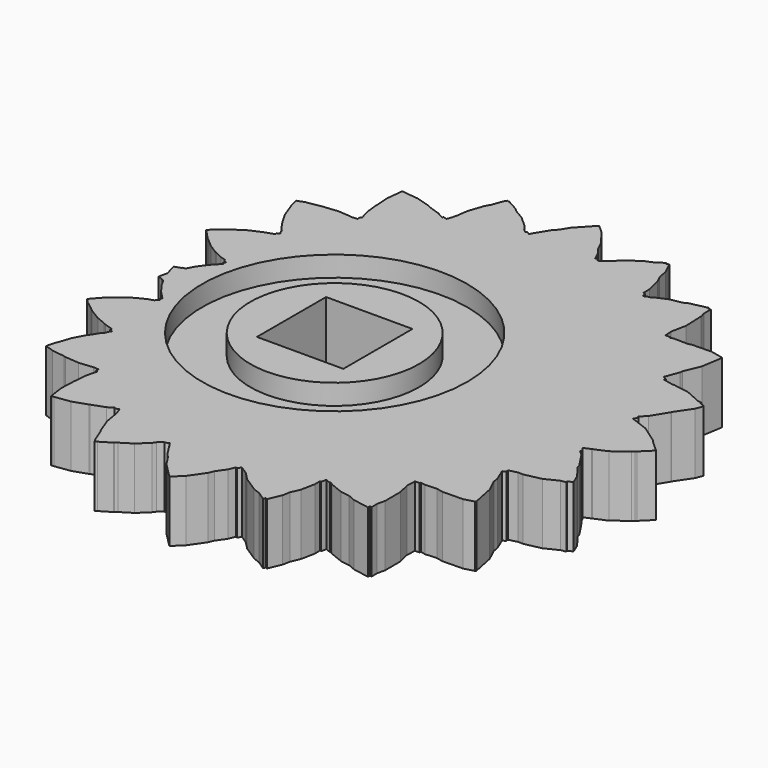
from build123d import *

# Parameters (mm, degrees)
SKETCH007_W  = 2.368544
SKETCH007_H  = 1
SKETCH008_W  = 2.368544
SKETCH008_H  = 1
SKETCH_W     = 4.24264
SKETCH_H     = 4.24264
PAD002_DEPTH = 10
PAD001_DEPTH = 3


with BuildPart() as revolution002:
    # Sketch007 → Revolution002 (revolve)
    with BuildSketch(Plane(origin=(0, 0, 4), x_dir=(1, 0, 0), z_dir=(0, -1, 0))):
        with Locations((5.324198, -1.5)):
            Rectangle(SKETCH007_W, SKETCH007_H)
    revolve(axis=Axis((0, 0, 4), (0, 0, 1)))


with BuildPart() as fusion002:
    # Sketch008 → Revolution003 (revolve)
    with BuildSketch(Plane(origin=(0, 0, -1), x_dir=(1, 0, 0), z_dir=(0, -1, 0))):
        with Locations((5.324198, 1.5)):
            Rectangle(SKETCH008_W, SKETCH008_H)
    revolve(axis=Axis((0, 0, -1), (0, 0, 1)))

    # Fusion002: union Revolution002
    add(revolution002.part)


with BuildPart() as pad002:
    # Sketch → Pad002 (new body)
    with BuildSketch(Plane.XY):
        Rectangle(SKETCH_W, SKETCH_H)
    extrude(amount=PAD002_DEPTH)


with BuildPart() as cut004:
    # DWire001 → Pad001 (new body)
    with BuildSketch(Plane.XY):
        Polygon((12.940729, -7.575096), (12.977557, -7.523913), (12.940729, -7.575096), (12.977557, -7.523913), (12.758574, -6.441059), (12.472225, -5.829769), (12.430485, -5.555857), (12.181117, -4.954914), (12.326812, -4.875535), (12.309377, -4.76112), (12.719063, -4.653555), (12.975736, -4.661282), (13.788068, -4.486426), (14.424428, -4.172962), (14.675999, -4.133869), (14.650758, -4.061474), (14.883204, -3.946974), (14.699382, -3.503987), (14.241549, -2.88781), (14.181787, -2.716409), (13.702015, -1.991631), (13.465961, -1.779003), (13.529085, -1.730391), (13.385386, -1.513307), (13.713488, -1.373265), (13.711346, -1.367121), (13.737346, -1.363081), (14.34015, -1.105789), (15.037328, -0.568892), (15.148866, -0.504908), (15.198417, -0.44098), (15.719279, 0.070179), (15.210449, 0.528512), (15.10034, 0.658673), (15.088926, 0.664587), (14.25531, 1.251546), (13.376205, 1.583702), (13.497607, 1.785053), (13.412823, 1.844751), (13.708631, 2.135049), (14.177201, 2.9122), (14.180326, 2.914966), (14.188725, 2.942717), (14.719572, 3.722897), (14.846831, 4.068971), (14.834107, 4.098537), (14.573445, 4.213737), (14.588173, 4.262392), (14.420438, 4.281359), (13.650459, 4.621652), (12.884372, 4.75399), (12.783349, 4.746861), (12.287499, 4.855868), (12.297676, 4.947289), (12.129541, 5.030154), (12.383904, 5.721877), (12.397791, 5.846618), (12.724988, 6.625463), (12.889497, 7.646299), (12.865471, 7.679689), (12.27308, 7.809921), (11.320258, 7.789391), (11.157506, 7.746807), (10.456875, 7.75666), (10.288881, 7.719668), (10.27642, 7.759198), (10.028878, 7.762679), (10.000143, 8.147202), (10.14491, 8.878696), (10.11032, 9.854959), (10.043503, 10.103481), (10.039339, 10.528952), (9.934564, 10.50868), (9.913224, 10.588053), (9.065251, 10.401333), (8.849646, 10.298784), (8.263947, 10.185471), (7.669773, 9.923853), (7.583522, 9.860324), (7.573268, 9.881361), (7.299944, 9.761016), (7.245852, 9.988503), (7.162589, 9.972394), (7.15885, 10.354402), (6.983731, 11.090885), (6.835555, 11.394891), (6.724023, 11.898163), (6.464034, 12.458241), (6.342309, 12.40686), (6.309577, 12.474014), (6.241455, 12.444019), (6.22838, 12.441649), (5.964833, 12.24753), (5.503542, 12.052821), (4.824323, 11.57209), (4.554923, 11.278192), (4.11821, 10.972168), (4.011261, 11.113573), (3.927208, 11.078206), (3.751142, 11.457493), (3.506659, 11.78074), (3.329396, 12.16735), (2.778661, 12.908163), (2.429705, 13.217772), (2.424534, 13.224634), (2.423382, 13.223382), (2.372766, 13.268291), (2.303318, 13.219625), (1.614812, 12.480863), (1.373322, 12.081987), (1.144998, 11.833803), (0.834528, 11.317637), (0.83027, 11.305709), (0.827844, 11.306525), (0.682856, 11.065478), (0.523027, 11.157733), (0.471771, 11.102018), (0.301364, 11.253211), (0.10223, 11.517492), (-0.41428, 11.973104), (-0.862912, 12.23247), (-1.054817, 12.395618), (-1.591619, 12.695531), (-1.609693, 12.664202), (-1.690625, 12.710991), (-1.783231, 12.557032), (-1.964529, 12.049133), (-2.095168, 11.822685), (-2.349526, 11.075653), (-2.42777, 10.506696), (-2.47547, 10.350993), (-2.482358, 10.288248), (-2.494217, 10.289799), (-2.564041, 10.061882), (-2.741097, 10.12016), (-2.77545, 10.055569), (-3.106099, 10.240302), (-3.629739, 10.412661), (-3.773198, 10.487091), (-4.509009, 10.707191), (-5.132958, 10.773757), (-5.272504, 10.80879), (-5.273799, 10.788783), (-5.326171, 10.794371), (-5.416445, 9.972), (-5.368208, 9.330359), (-5.37497, 9.2259), (-5.302564, 8.605354), (-5.157011, 8.123559), (-5.243743, 8.101251), (-5.224757, 7.938533), (-5.404306, 7.925128), (-5.458943, 7.928694), (-5.460137, 7.910248), (-5.63917, 7.929348), (-5.698949, 7.944355), (-6.221966, 7.978485), (-6.853168, 7.907451), (-6.896879, 7.907675), (-6.916391, 7.901944), (-7.654112, 7.776425), (-8.023541, 7.646319), (-7.926409, 7.3248), (-7.905521, 7.207473), (-7.872815, 7.142614), (-7.636423, 6.49471), (-7.329353, 5.958323), (-7.325878, 5.954082), (-7.01734, 5.49711), (-6.864614, 5.335395), (-6.893019, 5.31298), (-6.779176, 5.144368), (-6.91544, 5.069016), (-6.880896, 4.993167), (-7.353749, 4.826638), (-7.360866, 4.822702), (-7.917522, 4.579071), (-8.476114, 4.216683), (-8.569382, 4.132394), (-9.021235, 3.774518), (-9.186007, 3.595912), (-8.729505, 3.112539), (-8.720801, 3.102033), (-8.619614, 3.024371), (-8.22879, 2.681856), (-7.762397, 2.386964), (-7.673292, 2.348068), (-7.346317, 2.19214), (-7.070984, 2.108078), (-7.063291, 2.090179), (-7.076096, 2.063277), (-6.921343, 1.989478), (-6.916386, 1.970638), (-6.986492, 1.866588), (-6.92113, 1.822139), (-6.919086, 1.802765), (-7.328514, 1.358967), (-7.38168, 1.28006), (-7.626428, 0.941761), (-7.784195, 0.636965), (-7.807656, 0.635687), (-7.821288, 0.599104), (-7.953277, 0.575715), (-7.959755, 0.545471), (-8.258131, 0.446238), (-8.175554, 0.102494), (-8.09095, -0.124547), (-8.122197, -0.208401), (-8.121506, -0.209661), (-8.196885, -0.56157), (-8.001714, -0.621158), (-7.993105, -0.656992), (-7.885429, -0.676073), (-7.867331, -0.724639), (-7.838095, -0.725508), (-7.652313, -1.063657), (-7.458526, -1.317701), (-7.347913, -1.473213), (-6.944868, -1.887964), (-6.946264, -1.905568), (-7.008549, -1.950332), (-6.932371, -2.057432), (-6.936431, -2.074618), (-7.087852, -2.151598), (-7.072234, -2.182422), (-7.078804, -2.198814), (-7.37354, -2.296836), (-7.614736, -2.419455), (-7.792626, -2.502537), (-8.25984, -2.815205), (-8.571345, -3.10318), (-8.748128, -3.246476), (-9.177203, -3.726253), (-8.980474, -3.928696), (-8.603123, -4.211596), (-8.430524, -4.359447), (-7.868705, -4.702625), (-7.40997, -4.888411), (-7.307723, -4.941302), (-6.866937, -5.082627), (-6.896942, -5.153793), (-6.752475, -5.228524), (-6.858529, -5.395404), (-6.825506, -5.420038), (-6.993716, -5.608125), (-7.235973, -5.989324), (-7.307038, -6.081136), (-7.606822, -6.641033), (-7.791997, -7.19814), (-7.853719, -7.329896), (-7.86187, -7.38508), (-7.962584, -7.757911), (-7.534452, -7.895178), (-6.912075, -7.982618), (-6.811259, -8.009089), (-6.119592, -8.066292), (-5.431194, -8.000479), (-5.427194, -8.000656), (-5.41896, -7.999521), (-5.418816, -8.001028), (-5.174057, -8.011894), (-5.187332, -8.165865), (-5.09317, -8.187139), (-5.234168, -8.7091), (-5.289654, -9.352653), (-5.291789, -9.36195), (-5.325115, -10.114005), (-5.2165, -10.880935), (-5.144203, -10.870965), (-5.143336, -10.880025), (-5.080509, -10.862182), (-4.348263, -10.761206), (-3.63921, -10.524652), (-3.609628, -10.508084), (-2.983141, -10.279443), (-2.70156, -10.109869), (-2.669838, -10.165101), (-2.482227, -10.096631), (-2.40842, -10.312652), (-2.386665, -10.30911), (-2.370406, -10.423914), (-2.357098, -10.462864), (-2.237734, -11.164042), (-1.94968, -11.927625), (-1.877402, -12.043834), (-1.627226, -12.677514), (-1.562467, -12.777385), (-1.46063, -12.713916), (-1.454762, -12.723349), (-0.931019, -12.407939), (-0.903542, -12.397545), (-0.79564, -12.299467), (-0.253523, -11.961597), (0.227173, -11.507829), (0.336988, -11.351167), (0.559984, -11.139189), (0.603097, -11.182936), (0.770809, -11.078431), (0.915741, -11.301944), (0.926629, -11.29787), (0.94769, -11.351215), (1.291552, -11.881516), (1.438602, -12.030727), (1.773269, -12.542926), (2.500742, -13.270752), (2.960743, -12.833477), (3.468022, -12.098821), (3.575637, -11.840222), (3.883161, -11.402081), (4.020063, -11.076866), (4.092233, -11.104206), (4.204416, -10.944374), (4.58404, -11.190749), (4.967913, -11.580742), (5.695369, -12.057103), (6.040651, -12.188115), (6.424872, -12.449899), (6.455792, -12.462155), (6.499959, -12.362391), (6.591326, -12.397058), (6.856939, -11.766091), (6.922679, -11.40753), (7.114382, -10.974502), (7.254653, -10.26834), (7.245979, -9.960564), (7.313711, -9.971019), (7.363248, -9.721635), (7.62338, -9.824753), (7.638924, -9.789642), (7.783776, -9.888335), (8.425139, -10.142575), (8.883497, -10.213326), (9.243968, -10.368289), (10.030622, -10.509956), (10.057016, -10.394467), (10.141779, -10.407551), (10.132147, -10.065733), (10.220875, -9.677501), (10.21793, -8.740016), (10.082664, -8.173907), (10.099274, -7.705367), (10.324137, -7.693388), (10.339507, -7.637161), (10.576946, -7.679921), (11.143291, -7.649751), (11.458817, -7.719234), (12.461305, -7.700971), align=None)
    extrude(amount=PAD001_DEPTH)

    # Cut: cut Pad002
    add(pad002.part, mode=Mode.SUBTRACT)

    # Cut004: cut Fusion002
    add(fusion002.part, mode=Mode.SUBTRACT)


solid = cut004.part
